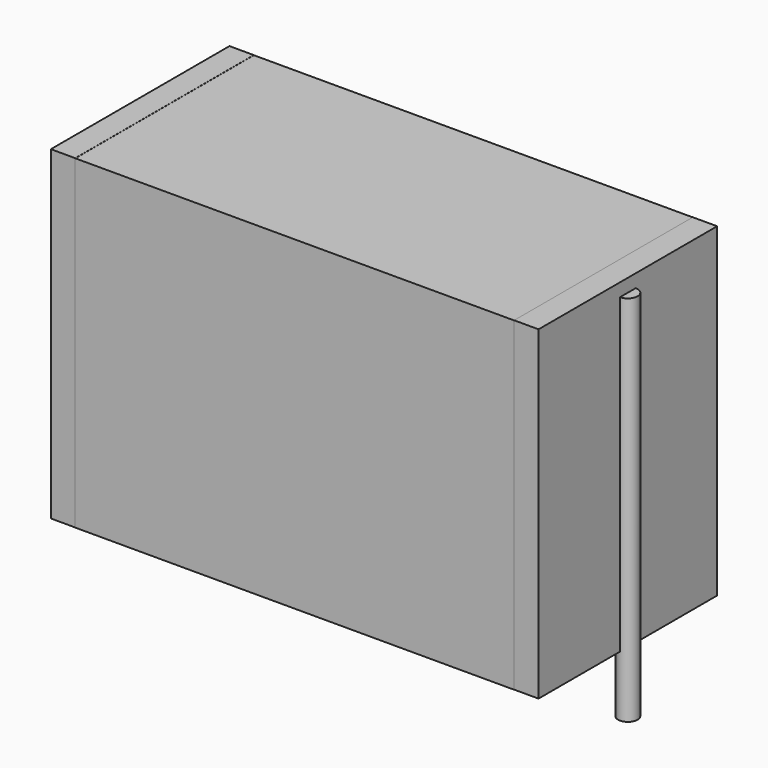
from build123d import *

# Parameters (mm, degrees)
SKETCH_W          = 20.25
SKETCH_H          = 10.3
PAD_DEPTH         = 15
SKETCH001_R       = 0.45
PAD001_DEPTH      = 14
PAD001_DEPTH_BACK = 3.2
SKETCH002_W       = 1.125
SKETCH002_H       = 10.3
PAD002_DEPTH      = 15


with BuildPart() as pad:
    # Sketch → Pad (new body)
    with BuildSketch(Plane.XY.offset(0.1)):
        with Locations((11.25, 0)):
            Rectangle(SKETCH_W, SKETCH_H)
    extrude(amount=PAD_DEPTH)


with BuildPart() as pad001:
    # Sketch001 → Pad001 (new body, two sides)
    with BuildSketch(Plane.XY.offset(0.5)) as pad001_sk:
        Circle(SKETCH001_R)
        with Locations((22.5, 0)):
            Circle(SKETCH001_R)
    extrude(amount=PAD001_DEPTH)
    extrude(pad001_sk.sketch, amount=-PAD001_DEPTH_BACK)


with BuildPart() as pad002:
    # Sketch002 → Pad002 (new body)
    with BuildSketch(Plane.XY.offset(0.105)):
        with Locations((0.5625, 0)):
            Rectangle(SKETCH002_W, SKETCH002_H)
        with Locations((21.9375, 0)):
            Rectangle(SKETCH002_W, SKETCH002_H)
    extrude(amount=PAD002_DEPTH)


solid = Compound([pad.part, pad001.part, pad002.part])
